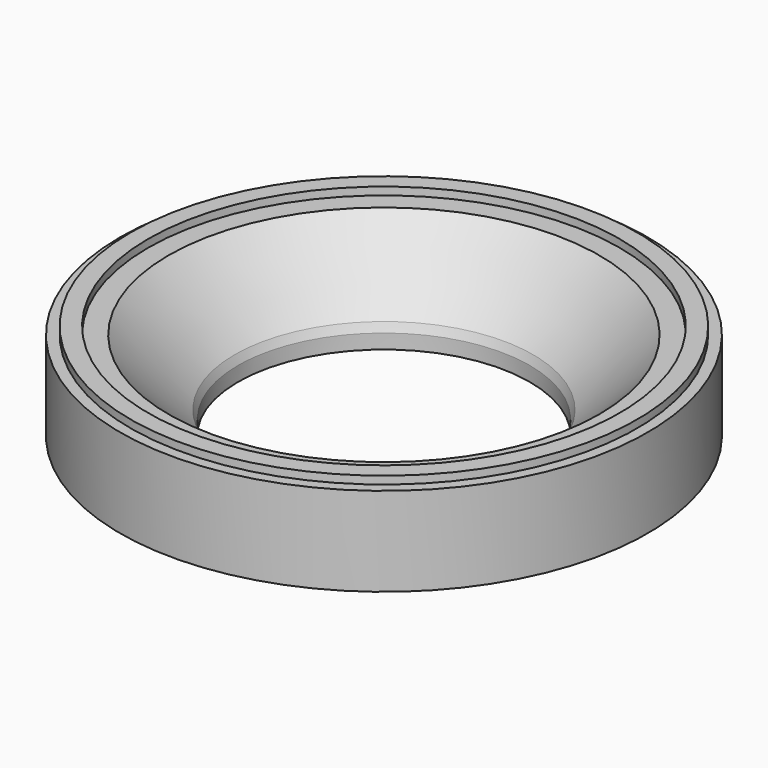
from build123d import *

# Parameters (mm, degrees)
F0_W    = 1.8
F0_H    = 0.8
F2_SIZE = 0.5


with BuildPart() as f1:
    # F0 (on Front) → F1 (revolve)
    with BuildSketch(Plane.XZ):
        with Locations((-10.141778, 7.541778)):
            Rectangle(F0_W, F0_H)
        Polygon((0, -2), (0, 0), (-7.141778, 7.141778), (-9.241778, 7.141778), (-11.041778, 7.141778), (-12.141778, 7.141778), (-12.141778, -2), align=None)
    revolve(axis=Axis((15, 0, 2.570889), (0, 0, 1)))

    # F2
    f2_edges = [f1.edges().sort_by_distance(p)[0] for p in [
        (30, 0, 0),
    ]]
    chamfer(f2_edges, length=F2_SIZE)


solid = f1.part
